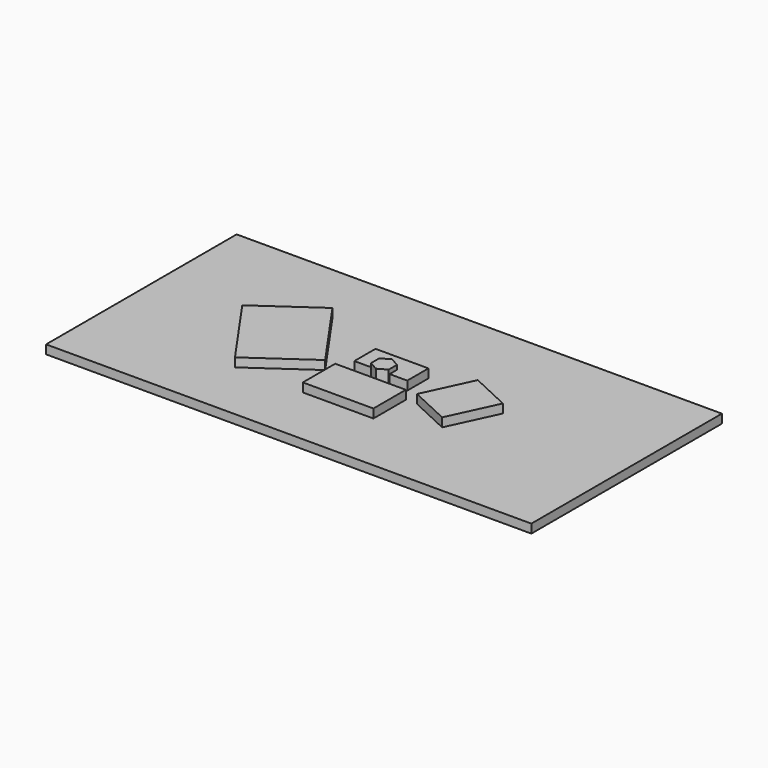
from build123d import *

# Parameters (mm, degrees)
F0_W     = 1397
F0_H     = 685.8
F1_DEPTH = 25.4
F2_W     = 203.2
F2_H     = 116.550732
F2_W_2   = 152.4
F2_H_2   = 76.2
F3_DEPTH = 25.4
F5_DEPTH = 38.1


with BuildPart() as f1:
    # F0 (on Top) → F1 (new body)
    with BuildSketch(Plane.XY):
        Rectangle(F0_W, F0_H)
    extrude(amount=F1_DEPTH)


with BuildPart() as f3:
    # F2 (on face) → F3 (new body)
    with BuildSketch(Plane.XY.offset(25.4)):
        with Locations((0, -106.824634)):
            Rectangle(F2_W, F2_H)
        Polygon((-296.975732, -165.1), (-130.455673, -48.646962), (-276.021971, 159.503111), (-442.54203, 43.050073), align=None)
        Polygon((313.572291, 35.801826), (198.471202, 89.474345), (134.064179, -48.646962), (249.165268, -102.319481), align=None)
        with Locations((0, 26.525366)):
            Rectangle(F2_W_2, F2_H_2)
    extrude(amount=F3_DEPTH)


with BuildPart() as f5:
    # F4 (on face) → F5 (new body)
    with BuildSketch(Plane.XY.offset(25.4)):
        Polygon((25.4, -14.664697), (25.4, 14.664697), (0, 29.329394), (-25.4, 14.664697), (-25.4, -14.664697), (0, -29.329394), align=None)
    extrude(amount=F5_DEPTH)


solid = Compound([f1.part, f3.part, f5.part])
